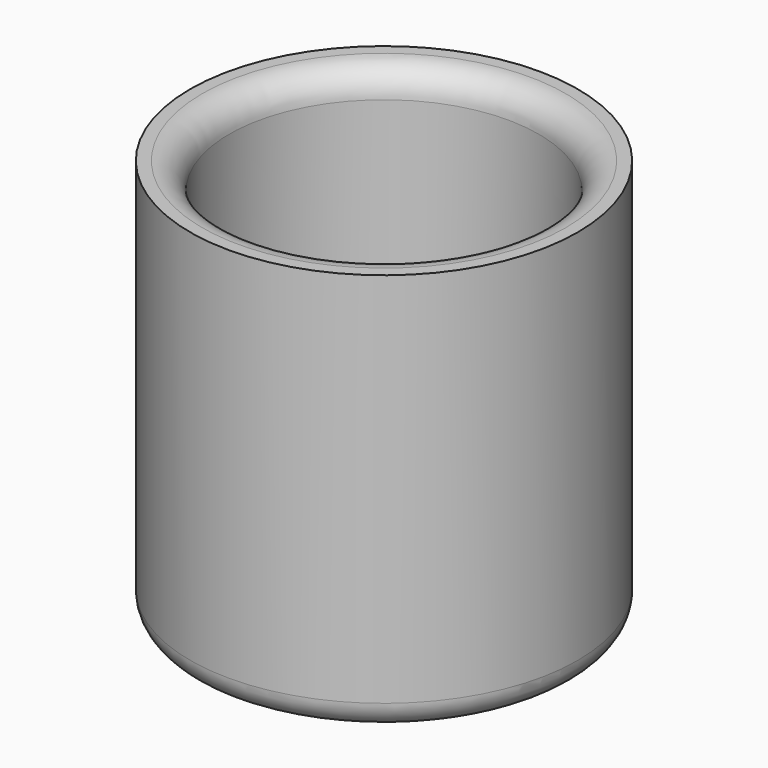
from build123d import *

# Parameters (mm, degrees)
F0_R     = 7.2
F0_R_2   = 1.25
F1_DEPTH = 3.5
F2_R     = 7.2
F2_R_2   = 5.75
F3_DEPTH = 15
F4_R     = 1


with BuildPart() as f1:
    # F0 (on Top) → F1 (new body)
    with BuildSketch(Plane.XY):
        Circle(F0_R)
        Circle(F0_R_2, mode=Mode.SUBTRACT)
    extrude(amount=F1_DEPTH)

    # F2 (on Top) → F3 (join)
    with BuildSketch(Plane.XY):
        Circle(F2_R)
        Circle(F2_R_2, mode=Mode.SUBTRACT)
    extrude(amount=F3_DEPTH)

    # F4
    f4_edges = [f1.edges().sort_by_distance(p)[0] for p in [
        (-7.2, 0, 0),
        (-5.75, 0, 15),
    ]]
    fillet(f4_edges, radius=F4_R)


solid = f1.part
